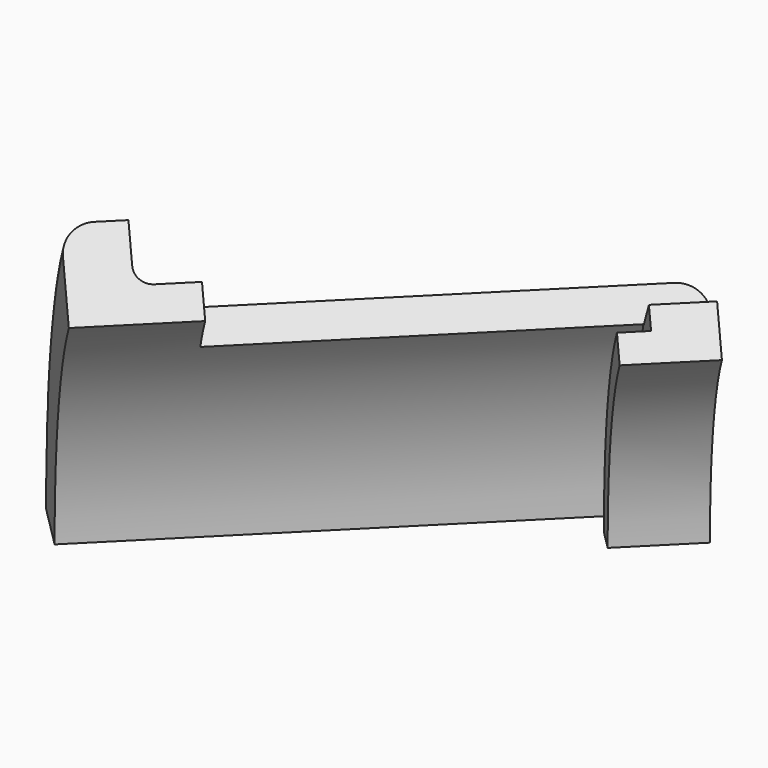
from build123d import *

# Parameters (mm, degrees)
BOX007_W               = 100
BOX007_H               = 100
BOX007_DEPTH           = 100
BOX007_PLACEMENT_ANGLE = -45
BOX006_W               = 100
BOX006_H               = 200
BOX006_DEPTH           = 100
BOX006_PLACEMENT_ANGLE = 45
BOX005_W               = 100
BOX005_H               = 100
BOX005_DEPTH           = 100
BOX004_W               = 20
BOX004_H               = 20
BOX004_DEPTH           = 80
BOX003_W               = 20
BOX003_H               = 20
BOX003_DEPTH           = 80
BOX002_W               = 10
BOX002_H               = 25
BOX002_DEPTH           = 35
BOX002_PITCH_ANGLE     = -15
BOX001_W               = 10
BOX001_H               = 25
BOX001_DEPTH           = 35
BOX001_PITCH_ANGLE     = 15
BOX_W                  = 20
BOX_H                  = 25
BOX_DEPTH              = 35
CYLINDER005_R          = 10
CYLINDER005_DEPTH      = 180
CYLINDER005_ROLL_ANGLE = 90
CYLINDER004_R          = 54
CYLINDER004_DEPTH      = 100
CYLINDER003_R          = 59
CYLINDER003_DEPTH      = 10
CYLINDER002_R          = 64
CYLINDER002_DEPTH      = 85
CYLINDER001_R          = 70
CYLINDER001_DEPTH      = 90
CYLINDER_R             = 80
CYLINDER_DEPTH         = 10
FILLET_R               = 3
FILLET001_R            = 5
FILLET002_R            = 5
CUT009_ROLL_ANGLE      = -90
CUT009_PITCH_ANGLE     = 45
CUT009_PLACEMENT_ANGLE = -45


with BuildPart() as cube004:
    # Box007 → Box007 (new body)
    with BuildSketch(Plane.XY):
        with Locations((50, 50)):
            Rectangle(BOX007_W, BOX007_H)
    extrude(amount=BOX007_DEPTH)


with BuildPart() as cube004_1:
    # Box007 placement: moved
    add(cube004.part.rotate(Axis((0, 0, 0), (0, 0, 1)), BOX007_PLACEMENT_ANGLE))


with BuildPart() as cube003:
    # Box006 → Box006 (new body)
    with BuildSketch(Plane.XY):
        with Locations((50, 100)):
            Rectangle(BOX006_W, BOX006_H)
    extrude(amount=BOX006_DEPTH)


with BuildPart() as cube003_1:
    # Box006 placement: moved
    add(cube003.part.moved(Location((71, -71, 0))).rotate(Axis((71, -71, 0), (0, 0, 1)), BOX006_PLACEMENT_ANGLE))


with BuildPart() as cube002:
    # Box005 → Box005 (new body)
    with BuildSketch(Plane(origin=(0, 0, 0), x_dir=(-1, 0, 0), z_dir=(0, 0, 1))):
        with Locations((50, 50)):
            Rectangle(BOX005_W, BOX005_H)
    extrude(amount=BOX005_DEPTH)


with BuildPart() as tab_cut_l:
    # Box004 → Box004 (new body)
    with BuildSketch(Plane(origin=(-83, -10, 20), x_dir=(1, 0, 0), z_dir=(0, 0, 1))):
        with Locations((10, 10)):
            Rectangle(BOX004_W, BOX004_H)
    extrude(amount=BOX004_DEPTH)


with BuildPart() as tab_cut_r:
    # Box003 → Box003 (new body)
    with BuildSketch(Plane(origin=(63, -10, 20), x_dir=(1, 0, 0), z_dir=(0, 0, 1))):
        with Locations((10, 10)):
            Rectangle(BOX003_W, BOX003_H)
    extrude(amount=BOX003_DEPTH)


with BuildPart() as cube001:
    # Box002 → Box002 (new body)
    with BuildSketch(Plane.XY):
        with Locations((5, 12.5)):
            Rectangle(BOX002_W, BOX002_H)
    extrude(amount=BOX002_DEPTH)


with BuildPart() as cube001_1:
    # Box002 pitch: moved
    add(cube001.part.rotate(Axis((0, 0, 0), (0, 1, 0)), BOX002_PITCH_ANGLE))


with BuildPart() as cube001_2:
    # Box002 placement: moved
    add(cube001_1.part.moved(Location((-9.95, 48, 64))))


with BuildPart() as cube:
    # Box001 → Box001 (new body)
    with BuildSketch(Plane.XY):
        with Locations((5, 12.5)):
            Rectangle(BOX001_W, BOX001_H)
    extrude(amount=BOX001_DEPTH)


with BuildPart() as cube_1:
    # Box001 pitch: moved
    add(cube.part.rotate(Axis((0, 0, 0), (0, 1, 0)), BOX001_PITCH_ANGLE))


with BuildPart() as cube_2:
    # Box001 placement: moved
    add(cube_1.part.moved(Location((0, 48, 65))))


with BuildPart() as bearing_slot:
    # Box → Box (new body)
    with BuildSketch(Plane(origin=(-10, 48, 65), x_dir=(1, 0, 0), z_dir=(0, 0, 1))):
        with Locations((10, 12.5)):
            Rectangle(BOX_W, BOX_H)
    extrude(amount=BOX_DEPTH)


with BuildPart() as bearing_holes:
    # Cylinder005 → Cylinder005 (new body)
    with BuildSketch(Plane.XY):
        Circle(CYLINDER005_R)
    extrude(amount=CYLINDER005_DEPTH)


with BuildPart() as bearing_holes_1:
    # Cylinder005 roll: moved
    add(bearing_holes.part.rotate(Axis((0, 0, 0), (1, 0, 0)), CYLINDER005_ROLL_ANGLE))


with BuildPart() as bearing_holes_2:
    # Cylinder005 placement: moved
    add(bearing_holes_1.part.moved(Location((0, 90, 65))))


with BuildPart() as through_hole:
    # Cylinder004 → Cylinder004 (new body)
    with BuildSketch(Plane.XY):
        Circle(CYLINDER004_R)
    extrude(amount=CYLINDER004_DEPTH)


with BuildPart() as inner_lip:
    # Cylinder003 → Cylinder003 (new body)
    with BuildSketch(Plane.XY.offset(80)):
        Circle(CYLINDER003_R)
    extrude(amount=CYLINDER003_DEPTH)


with BuildPart() as inner_hole:
    # Cylinder002 → Cylinder002 (new body)
    with BuildSketch(Plane.XY):
        Circle(CYLINDER002_R)
    extrude(amount=CYLINDER002_DEPTH)


with BuildPart() as body_cylinder:
    # Cylinder001 → Cylinder001 (new body)
    with BuildSketch(Plane.XY.offset(5)):
        Circle(CYLINDER001_R)
    extrude(amount=CYLINDER001_DEPTH)


with BuildPart() as cut010:
    # Cylinder → Cylinder (new body)
    with BuildSketch(Plane.XY):
        Circle(CYLINDER_R)
    extrude(amount=CYLINDER_DEPTH)

    # Fusion: union Body_Cylinder
    add(body_cylinder.part)

    # Cut: cut Inner_Hole
    add(inner_hole.part, mode=Mode.SUBTRACT)

    # Fusion001: union Inner_Lip
    add(inner_lip.part)

    # Cut001: cut Through_Hole
    add(through_hole.part, mode=Mode.SUBTRACT)

    # Fillet
    fillet_edges = [cut010.edges().sort_by_distance(p)[0] for p in [
        (-70, 0, 10),
    ]]
    fillet(fillet_edges, radius=FILLET_R)

    # Fillet001
    fillet001_edges = [cut010.edges().sort_by_distance(p)[0] for p in [
        (-80, 0, 0),
    ]]
    fillet(fillet001_edges, radius=FILLET001_R)

    # Fillet002
    fillet002_edges = [cut010.edges().sort_by_distance(p)[0] for p in [
        (-70, 0, 95),
    ]]
    fillet(fillet002_edges, radius=FILLET002_R)

    # Cut002: cut Bearing_Holes
    add(bearing_holes_2.part, mode=Mode.SUBTRACT)

    # Cut003: cut Bearing_Slot
    add(bearing_slot.part, mode=Mode.SUBTRACT)

    # Cut004: cut Cube
    add(cube_2.part, mode=Mode.SUBTRACT)

    # Cut005: cut Cube001
    add(cube001_2.part, mode=Mode.SUBTRACT)

    # Cut006: cut Tab_Cut_R
    add(tab_cut_r.part, mode=Mode.SUBTRACT)

    # Cut007: cut Tab_Cut_L
    add(tab_cut_l.part, mode=Mode.SUBTRACT)

    # Cut008: cut Cube002
    add(cube002.part, mode=Mode.SUBTRACT)

    # Cut009: cut Cube003
    add(cube003_1.part, mode=Mode.SUBTRACT)


with BuildPart() as cut010_1:
    # Cut009 roll: moved
    add(cut010.part.rotate(Axis((0, 0, 0), (1, 0, 0)), CUT009_ROLL_ANGLE))


with BuildPart() as cut010_2:
    # Cut009 pitch: moved
    add(cut010_1.part.rotate(Axis((0, 0, 0), (0, 1, 0)), CUT009_PITCH_ANGLE))


with BuildPart() as cut010_3:
    # Cut009 placement: moved
    add(cut010_2.part.rotate(Axis((0, 0, 0), (0, 0, 1)), CUT009_PLACEMENT_ANGLE))

    # Cut010: cut Cube004
    add(cube004_1.part, mode=Mode.SUBTRACT)


solid = cut010_3.part
